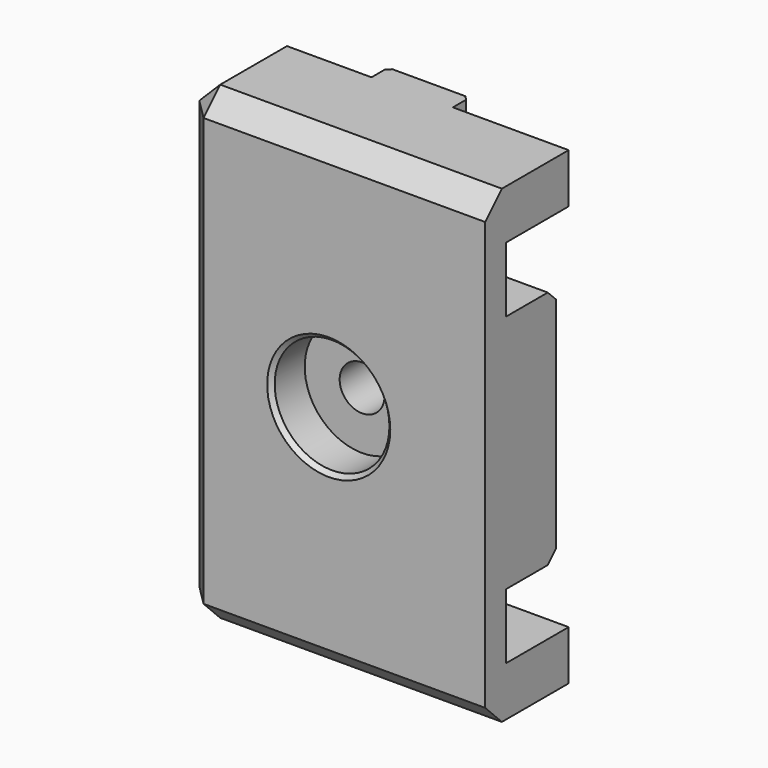
from build123d import *

# Parameters (mm, degrees)
CYLINDER001_R     = 5.5
CYLINDER001_DEPTH = 10
CYLINDER_R        = 2.15
CYLINDER_DEPTH    = 10
BOX001_W          = 29
BOX001_H          = 7.5
BOX001_DEPTH      = 35.5
BOX_W             = 29
BOX_H             = 10
BOX_DEPTH         = 45
CHAMFER_SIZE      = 2
BOX003_W          = 7.8
BOX003_H          = 3
BOX003_DEPTH      = 4.75
BOX002_W          = 27
BOX002_H          = 6
BOX002_DEPTH      = 23
CHAMFER001_SIZE   = 1
BOX004_W          = 7.8
BOX004_H          = 3
BOX004_DEPTH      = 4.75
CHAMFER002_SIZE   = 0.4
CHAMFER003_SIZE   = 0.4


with BuildPart() as cylinder001:
    # Cylinder001 → Cylinder001 (new body)
    with BuildSketch(Plane(origin=(0, -6, 22.5), x_dir=(1, 0, 0), z_dir=(0, 1, 0))):
        Circle(CYLINDER001_R)
    extrude(amount=CYLINDER001_DEPTH)


with BuildPart() as cylinder:
    # Cylinder → Cylinder (new body)
    with BuildSketch(Plane(origin=(0, 0, 22.5), x_dir=(1, 0, 0), z_dir=(0, 1, 0))):
        Circle(CYLINDER_R)
    extrude(amount=CYLINDER_DEPTH)


with BuildPart() as cube001:
    # Box001 → Box001 (new body)
    with BuildSketch(Plane(origin=(-11, 2.5, 4.75), x_dir=(1, 0, 0), z_dir=(0, 0, 1))):
        with Locations((14.5, 3.75)):
            Rectangle(BOX001_W, BOX001_H)
    extrude(amount=BOX001_DEPTH)


with BuildPart() as chamfer_body:
    # Box → Box (new body)
    with BuildSketch(Plane(origin=(-14, 0, 0), x_dir=(1, 0, 0), z_dir=(0, 0, 1))):
        with Locations((14.5, 5)):
            Rectangle(BOX_W, BOX_H)
    extrude(amount=BOX_DEPTH)

    # Cut: cut Cube001
    add(cube001.part, mode=Mode.SUBTRACT)

    # Chamfer
    chamfer_edges = [chamfer_body.edges().sort_by_distance(p)[0] for p in [
        (-14, 0, 22.5),
        (-14, 5, 45),
        (-14, 5, 0),
        (0.5, 0, 0),
        (0.5, 0, 45),
    ]]
    chamfer(chamfer_edges, length=CHAMFER_SIZE)


with BuildPart() as cube003:
    # Box003 → Box003 (new body)
    with BuildSketch(Plane(origin=(-3.9, 9, 0), x_dir=(1, 0, 0), z_dir=(0, 0, 1))):
        with Locations((3.9, 1.5)):
            Rectangle(BOX003_W, BOX003_H)
    extrude(amount=BOX003_DEPTH)


with BuildPart() as chamfer001:
    # Box002 → Box002 (new body)
    with BuildSketch(Plane(origin=(-12, 2.5, 11), x_dir=(1, 0, 0), z_dir=(0, 0, 1))):
        with Locations((13.5, 3)):
            Rectangle(BOX002_W, BOX002_H)
    extrude(amount=BOX002_DEPTH)

    # Chamfer001
    chamfer001_edges = [chamfer001.edges().sort_by_distance(p)[0] for p in [
        (1.5, 8.5, 11),
        (1.5, 8.5, 34),
    ]]
    chamfer(chamfer001_edges, length=CHAMFER001_SIZE)


with BuildPart() as chamfer003:
    # Box004 → Box004 (new body)
    with BuildSketch(Plane(origin=(-3.9, 9, 40.25), x_dir=(1, 0, 0), z_dir=(0, 0, 1))):
        with Locations((3.9, 1.5)):
            Rectangle(BOX004_W, BOX004_H)
    extrude(amount=BOX004_DEPTH)

    # Fusion: union Cube003, Chamfer001
    add(cube003.part)
    add(chamfer001.part)

    # Chamfer002
    chamfer002_edges = [chamfer003.edges().sort_by_distance(p)[0] for p in [
        (-3.9, 12, 42.625),
        (3.9, 12, 42.625),
        (-3.9, 12, 2.375),
        (3.9, 12, 2.375),
    ]]
    chamfer(chamfer002_edges, length=CHAMFER002_SIZE)

    # Fusion001: union Chamfer body
    add(chamfer_body.part)

    # Cut001: cut Cylinder
    add(cylinder.part, mode=Mode.SUBTRACT)

    # Cut002: cut Cylinder001
    add(cylinder001.part, mode=Mode.SUBTRACT)

    # Chamfer003
    chamfer003_edges = [chamfer003.edges().sort_by_distance(p)[0] for p in [
        (-5.5, 0, 22.5),
    ]]
    chamfer(chamfer003_edges, length=CHAMFER003_SIZE)


solid = chamfer003.part
